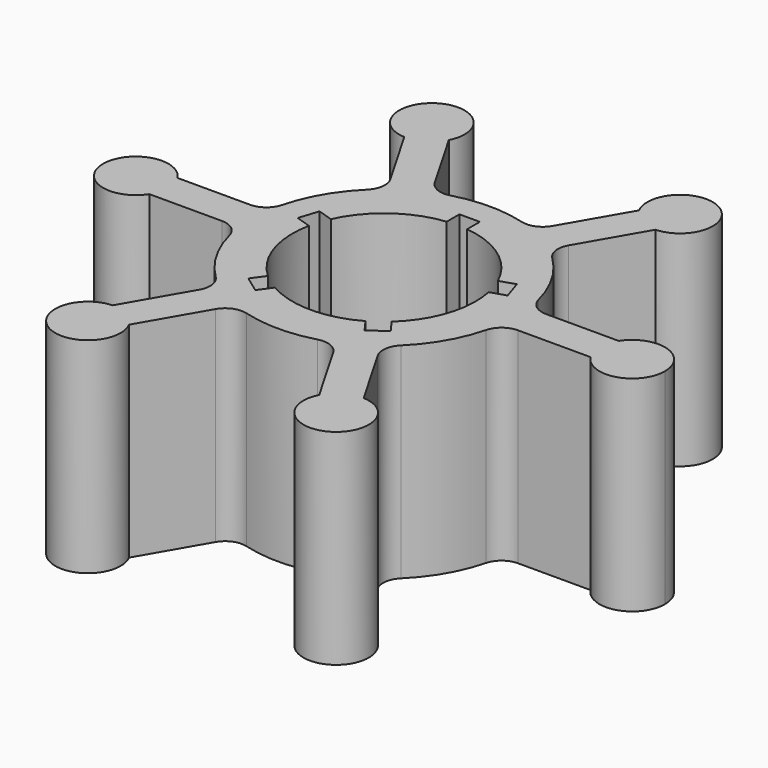
from build123d import *

# Parameters (mm, degrees)
F1_DEPTH = 12.7508
F2_R     = 1.27


with BuildPart() as f1:
    # F0 (on Top) → F1 (new body)
    with BuildSketch(Plane.XY):
        with BuildLine():
            Line((-5.912621, -12.42536), (-3.132528, -7.610098))
            ThreePointArc((-3.132528, -7.610098), (0, -8.2296), (3.132528, -7.610098))
            Line((3.132528, -7.610098), (5.912621, -12.42536))
            ThreePointArc((5.912621, -12.42536), (8.73125, -15.122969), (7.804367, -11.33316))
            Line((7.804367, -11.33316), (5.024274, -6.517898))
            ThreePointArc((5.024274, -6.517898), (7.127043, -4.1148), (8.156802, -1.0922))
            Line((8.156802, -1.0922), (13.716988, -1.0922))
            ThreePointArc((13.716988, -1.0922), (15.999344, -1.950754), (17.4625, 0))
            ThreePointArc((17.4625, 0), (15.999344, 1.950754), (13.716988, 1.0922))
            Line((13.716988, 1.0922), (8.156802, 1.0922))
            ThreePointArc((8.156802, 1.0922), (7.127043, 4.1148), (5.024274, 6.517898))
            Line((5.024274, 6.517898), (7.804367, 11.33316))
            ThreePointArc((7.804367, 11.33316), (8.73125, 15.122969), (5.912621, 12.42536))
            Line((5.912621, 12.42536), (3.132528, 7.610098))
            ThreePointArc((3.132528, 7.610098), (0, 8.2296), (-3.132528, 7.610098))
            Line((-3.132528, 7.610098), (-5.912621, 12.42536))
            ThreePointArc((-5.912621, 12.42536), (-8.73125, 15.122969), (-7.804367, 11.33316))
            Line((-7.804367, 11.33316), (-5.024274, 6.517898))
            ThreePointArc((-5.024274, 6.517898), (-7.127043, 4.1148), (-8.156802, 1.0922))
            Line((-8.156802, 1.0922), (-13.716988, 1.0922))
            ThreePointArc((-13.716988, 1.0922), (-17.4625, 0), (-13.716988, -1.0922))
            Line((-13.716988, -1.0922), (-8.156802, -1.0922))
            ThreePointArc((-8.156802, -1.0922), (-7.127043, -4.1148), (-5.024274, -6.517898))
            Line((-5.024274, -6.517898), (-7.804367, -11.33316))
            ThreePointArc((-7.804367, -11.33316), (-8.73125, -15.122969), (-5.912621, -12.42536))
        make_face()
        with BuildLine():
            ThreePointArc((-5.193253, 2.355069), (-3.351728, 4.613258), (-0.635, 5.666833))
            Line((-0.635, 5.666833), (-0.635, 6.6548))
            Line((-0.635, 6.6548), (0.635, 6.6548))
            Line((0.635, 6.6548), (0.635, 5.666833))
            ThreePointArc((0.635, 5.666833), (3.351728, 4.613258), (5.193253, 2.355069))
            Line((5.193253, 2.355069), (6.132865, 2.660367))
            Line((6.132865, 2.660367), (6.525317, 1.452525))
            Line((6.525317, 1.452525), (5.585705, 1.147227))
            ThreePointArc((5.585705, 1.147227), (5.42321, -1.762108), (3.844607, -4.211321))
            Line((3.844607, -4.211321), (4.425319, -5.010603))
            Line((4.425319, -5.010603), (3.397868, -5.75709))
            Line((3.397868, -5.75709), (2.817155, -4.957808))
            ThreePointArc((2.817155, -4.957808), (0, -5.7023), (-2.817155, -4.957808))
            Line((-2.817155, -4.957808), (-3.397868, -5.75709))
            Line((-3.397868, -5.75709), (-4.425319, -5.010603))
            Line((-4.425319, -5.010603), (-3.844607, -4.211321))
            ThreePointArc((-3.844607, -4.211321), (-5.42321, -1.762108), (-5.585705, 1.147227))
            Line((-5.585705, 1.147227), (-6.525317, 1.452525))
            Line((-6.525317, 1.452525), (-6.132865, 2.660367))
            Line((-6.132865, 2.660367), (-5.193253, 2.355069))
        make_face(mode=Mode.SUBTRACT)
    extrude(amount=F1_DEPTH)

    # F2
    f2_edges = [f1.edges().sort_by_distance(p)[0] for p in [
        (-3.132528, 7.610098, 6.3754),
        (5.024274, 6.517898, 6.3754),
        (8.156802, 1.0922, 6.3754),
        (3.132528, 7.610098, 6.3754),
        (-5.024274, 6.517898, 6.3754),
        (-8.156802, 1.0922, 6.3754),
        (-5.024274, -6.517898, 6.3754),
        (-8.156802, -1.0922, 6.3754),
        (-3.132528, -7.610098, 6.3754),
        (3.132528, -7.610098, 6.3754),
        (5.024274, -6.517898, 6.3754),
        (8.156802, -1.0922, 6.3754),
    ]]
    fillet(f2_edges, radius=F2_R)


solid = f1.part
